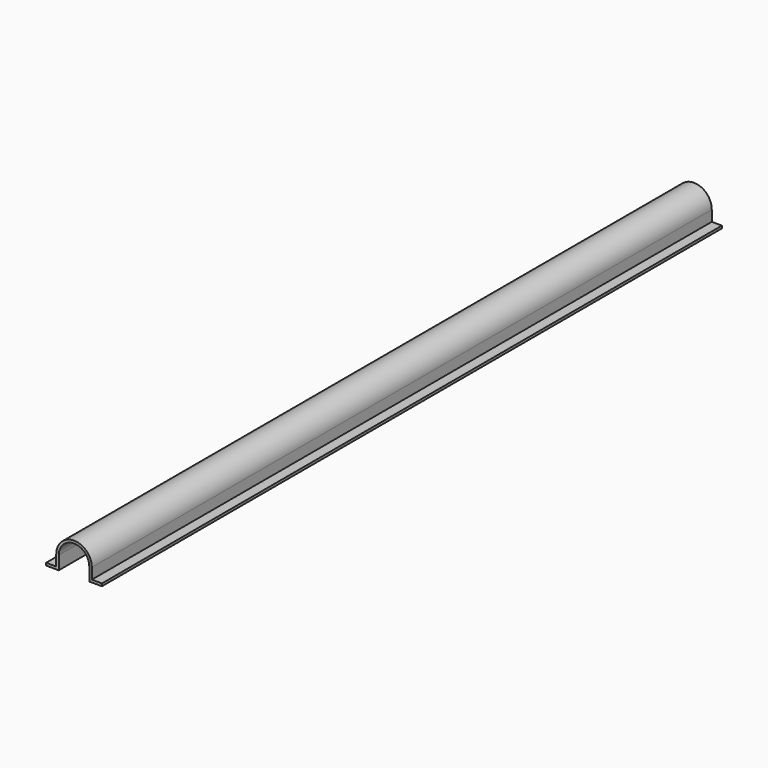
from build123d import *

# Parameters (mm, degrees)
PAD_DEPTH = 305


with BuildPart() as part:
    # Sketch → Pad (new body)
    with BuildSketch(Plane.XZ):
        with BuildLine():
            ThreePointArc((6, 5.262), (0, 11.262), (-6, 5.262))
            Line((-6, 0), (-6, 5.262))
            Line((-11, 0), (-6, 0))
            Line((-11, 1), (-11, 0))
            Line((-7, 1), (-11, 1))
            Line((-7, 1), (-7, 5.262))
            ThreePointArc((7, 5.262), (0, 12.262), (-7, 5.262))
            Line((7, 5.262), (7, 1))
            Line((11, 1), (7, 1))
            Line((11, 0), (11, 1))
            Line((6, 0), (11, 0))
            Line((6, 5.262), (6, 0))
        make_face()
    extrude(amount=PAD_DEPTH)


solid = part.part
